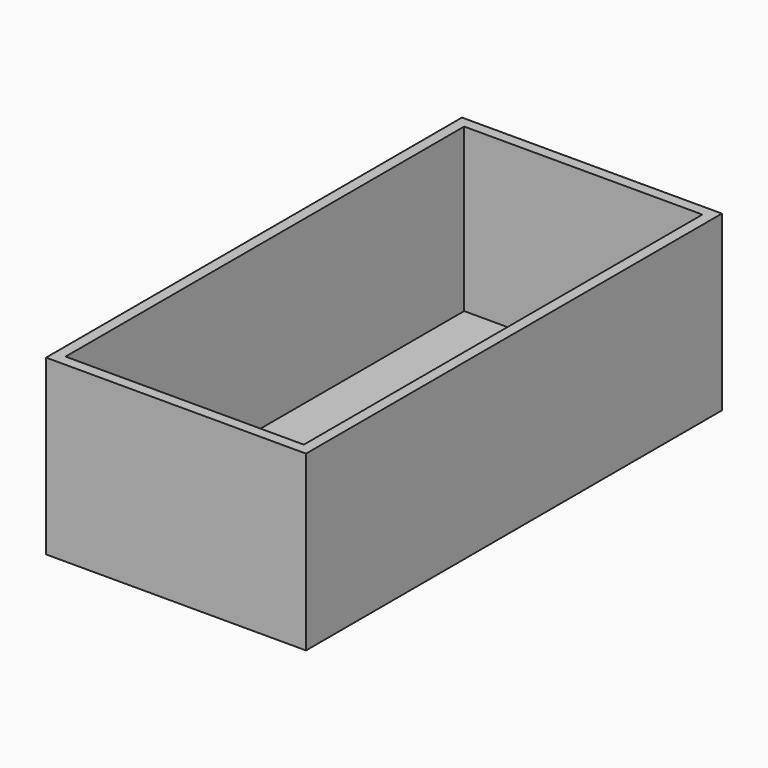
from build123d import *

# Parameters (mm, degrees)
F0_W     = 120
F0_H     = 240
F1_DEPTH = 80
F3_DEPTH = 75


with BuildPart() as f1:
    # F0 (on Top) → F1 (new body)
    with BuildSketch(Plane.XY):
        with Locations((60, 120)):
            Rectangle(F0_W, F0_H)
    extrude(amount=F1_DEPTH)

    # F2 (on face) → F3 (cut)
    with BuildSketch(Plane.XY.offset(80)):
        Polygon((115, 235), (5, 235), (5, 152.276635), (5, 5), (60, 5), (115, 5), align=None)
    extrude(amount=-F3_DEPTH, mode=Mode.SUBTRACT)


solid = f1.part
